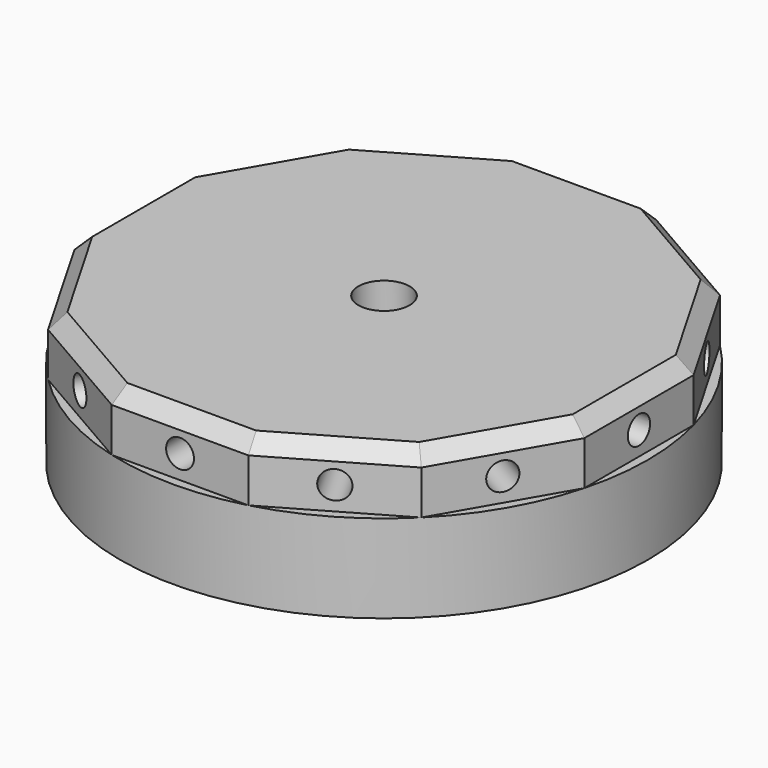
from build123d import *

# Parameters (mm, degrees)
F0_R     = 45.72
F0_W     = 56.388
F0_H     = 56.388
F1_DEPTH = 15.24
F2_W     = 56.388
F2_H     = 56.388
F3_DEPTH = 10.16
F4_W     = 56.388
F4_H     = 56.388
F4_R     = 4.445
F5_DEPTH = 10.16
F6_R     = 2.413
F7_DEPTH = 31.75
F8_COUNT = 12
F9_SIZE  = 2.54


with BuildPart() as f1:
    # F0 (on Top) → F1 (new body)
    with BuildSketch(Plane.XY):
        Circle(F0_R)
        Rectangle(F0_W, F0_H, mode=Mode.SUBTRACT)
    extrude(amount=F1_DEPTH)

    # F2 (on face) → F3 (join)
    with BuildSketch(Plane.XY.offset(15.24)):
        Polygon((11.833207, 44.162129), (-11.833207, 44.162129), (-32.328922, 32.328922), (-44.162129, 11.833207), (-44.162129, -11.833207), (-32.328922, -32.328922), (-11.833207, -44.162129), (11.833207, -44.162129), (32.328922, -32.328922), (44.162129, -11.833207), (44.162129, 11.833207), (32.328922, 32.328922), align=None)
        Rectangle(F2_W, F2_H, mode=Mode.SUBTRACT)
    extrude(amount=F3_DEPTH)

    # F4 (on face) → F5 (join)
    with BuildSketch(Plane.XY.offset(25.4)):
        Rectangle(F4_W, F4_H)
        Circle(F4_R, mode=Mode.SUBTRACT)
    extrude(amount=-F5_DEPTH)

    # F9
    f9_edges = [f1.edges().sort_by_distance(p)[0] for p in [
        (38.245525, 22.081064, 25.4),
        (22.081064, 38.245525, 25.4),
        (0, 44.162129, 25.4),
        (44.162129, 0, 25.4),
        (38.245525, -22.081064, 25.4),
        (22.081064, -38.245525, 25.4),
        (0, -44.162129, 25.4),
        (-22.081064, -38.245525, 25.4),
        (-38.245525, -22.081064, 25.4),
        (-44.162129, 0, 25.4),
        (-38.245525, 22.081064, 25.4),
        (-22.081064, 38.245525, 25.4),
    ]]
    chamfer(f9_edges, length=F9_SIZE)


with BuildPart() as f7:
    # F6 (on face) → F7 (new body, symmetric)
    with BuildSketch(Plane(origin=(-38.245525, -22.081064, 0), x_dir=(0.5, -0.866025, 0), z_dir=(-0.866025, -0.5, 0))):
        with Locations((0, 19.304)):
            Circle(F6_R)
    extrude(amount=F7_DEPTH, both=True)


with BuildPart() as f8_1:
    # F8: instance of F7
    add(f7.part.rotate(Axis((0, 0, 25.4), (0, 0, 1)), 1 * 360 / F8_COUNT))


with BuildPart() as f8_2:
    # F8: instance of F7
    add(f7.part.rotate(Axis((0, 0, 25.4), (0, 0, 1)), 2 * 360 / F8_COUNT))


with BuildPart() as f8_3:
    # F8: instance of F7
    add(f7.part.rotate(Axis((0, 0, 25.4), (0, 0, 1)), 3 * 360 / F8_COUNT))


with BuildPart() as f8_4:
    # F8: instance of F7
    add(f7.part.rotate(Axis((0, 0, 25.4), (0, 0, 1)), 4 * 360 / F8_COUNT))


with BuildPart() as f8_5:
    # F8: instance of F7
    add(f7.part.rotate(Axis((0, 0, 25.4), (0, 0, 1)), 5 * 360 / F8_COUNT))


with BuildPart() as f8_6:
    # F8: instance of F7
    add(f7.part.rotate(Axis((0, 0, 25.4), (0, 0, 1)), 6 * 360 / F8_COUNT))


with BuildPart() as f8_7:
    # F8: instance of F7
    add(f7.part.rotate(Axis((0, 0, 25.4), (0, 0, 1)), 7 * 360 / F8_COUNT))


with BuildPart() as f8_8:
    # F8: instance of F7
    add(f7.part.rotate(Axis((0, 0, 25.4), (0, 0, 1)), 8 * 360 / F8_COUNT))


with BuildPart() as f8_9:
    # F8: instance of F7
    add(f7.part.rotate(Axis((0, 0, 25.4), (0, 0, 1)), 9 * 360 / F8_COUNT))


with BuildPart() as f8_10:
    # F8: instance of F7
    add(f7.part.rotate(Axis((0, 0, 25.4), (0, 0, 1)), 10 * 360 / F8_COUNT))


with BuildPart() as f8_11:
    # F8: instance of F7
    add(f7.part.rotate(Axis((0, 0, 25.4), (0, 0, 1)), 11 * 360 / F8_COUNT))


with BuildPart() as f1_1:
    add(f1.part)

    # F10: cut F8_2, F8_1, F7, F8_11, F8_10, F8_9, F8_8, F8_7, F8_6, F8_5, F8_4, F8_3
    add(f8_2.part, mode=Mode.SUBTRACT)
    add(f8_1.part, mode=Mode.SUBTRACT)
    add(f7.part, mode=Mode.SUBTRACT)
    add(f8_11.part, mode=Mode.SUBTRACT)
    add(f8_10.part, mode=Mode.SUBTRACT)
    add(f8_9.part, mode=Mode.SUBTRACT)
    add(f8_8.part, mode=Mode.SUBTRACT)
    add(f8_7.part, mode=Mode.SUBTRACT)
    add(f8_6.part, mode=Mode.SUBTRACT)
    add(f8_5.part, mode=Mode.SUBTRACT)
    add(f8_4.part, mode=Mode.SUBTRACT)
    add(f8_3.part, mode=Mode.SUBTRACT)


solid = f1_1.part
